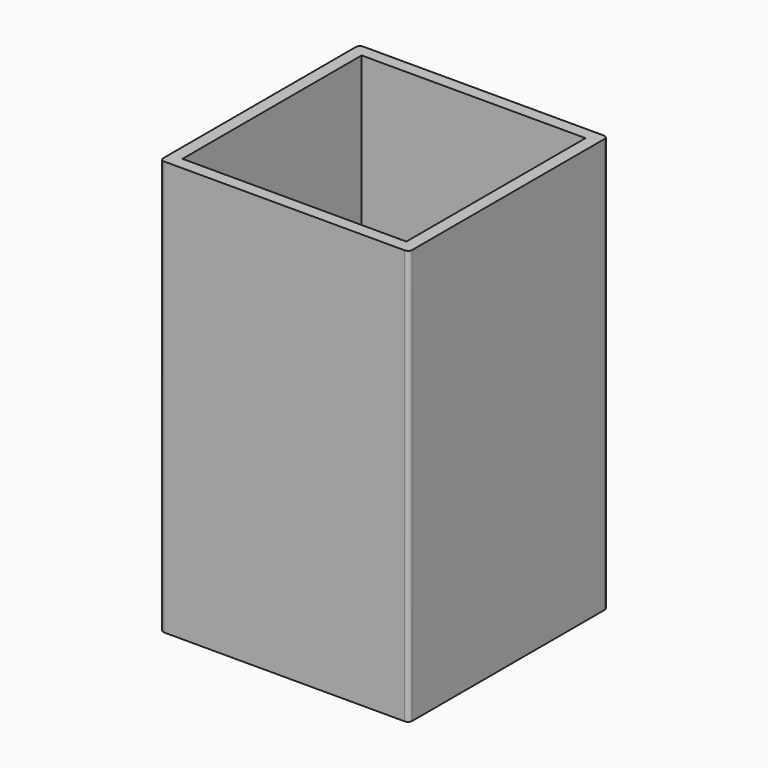
from build123d import *

# Parameters (mm, degrees)
SKETCH_W   = 60
SKETCH_H   = 60
SKETCH_W_2 = 54
SKETCH_H_2 = 54
PAD_DEPTH  = 100
FILLET_R   = 1


with BuildPart() as part:
    # Sketch → Pad (new body)
    with BuildSketch(Plane.XY):
        Rectangle(SKETCH_W, SKETCH_H)
        Rectangle(SKETCH_W_2, SKETCH_H_2, mode=Mode.SUBTRACT)
    extrude(amount=PAD_DEPTH)

    # Fillet
    fillet_edges = [part.edges().sort_by_distance(p)[0] for p in [
        (30, -30, 50),
        (30, 30, 50),
        (-30, 30, 50),
        (-30, -30, 50),
    ]]
    fillet(fillet_edges, radius=FILLET_R)


solid = part.part
